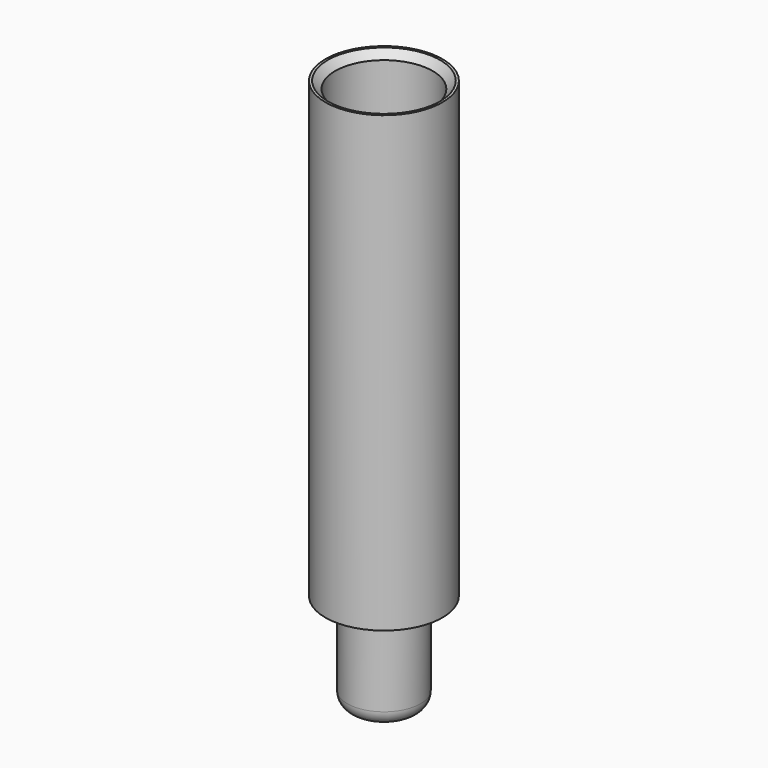
from build123d import *

# Parameters (mm, degrees)
SKETCH011_R      = 1
EXTRUDE013_DEPTH = 8
SKETCH009_R      = 1.2
EXTRUDE012_DEPTH = 9.3
CHAMFER001_SIZE  = 0.15
SKETCH012_R      = 0.75
EXTRUDE014_DEPTH = 2
FILLET011_R      = 0.3


with BuildPart() as extrude013:
    # Sketch011 → Extrude013 (new body)
    with BuildSketch(Plane.XY.offset(9.3)):
        with Locations((-2.5, 0)):
            Circle(SKETCH011_R)
    extrude(amount=-EXTRUDE013_DEPTH)


with BuildPart() as pinfemale002:
    # Sketch009 → Extrude012 (new body)
    with BuildSketch(Plane.XY.offset(9.6)):
        with Locations((-2.5, 0)):
            Circle(SKETCH009_R)
    extrude(amount=-EXTRUDE012_DEPTH)


with BuildPart() as pinfemale002_1:
    # Extrude012 placement: moved
    add(pinfemale002.part.moved(Location((0, 0, -0.3))))

    # Cut007: cut Extrude013
    add(extrude013.part, mode=Mode.SUBTRACT)

    # Chamfer001
    chamfer001_edges = [pinfemale002_1.edges().sort_by_distance(p)[0] for p in [
        (-3.5, 0, 9.3),
    ]]
    chamfer(chamfer001_edges, length=CHAMFER001_SIZE)


with BuildPart() as pinfemale003:
    # Sketch012 → Extrude014 (new body)
    with BuildSketch(Plane(origin=(0, 0, 0), x_dir=(1, 0, 0), z_dir=(0, 0, -1))):
        with Locations((-2.5, 0)):
            Circle(SKETCH012_R)
    extrude(amount=EXTRUDE014_DEPTH)

    # Fillet011
    fillet011_edges = [pinfemale003.edges().sort_by_distance(p)[0] for p in [
        (-3.25, 0, -2),
    ]]
    fillet(fillet011_edges, radius=FILLET011_R)

    # Fusion006: union pinFemale002
    add(pinfemale002_1.part)


with BuildPart() as part_mirroring004:
    # Part__Mirroring004: instance of pinFemale003
    add(pinfemale003.part.mirror(Plane(origin=(0, 0, 0), x_dir=(0, -1, 0), z_dir=(1, 0, 0))))


solid = part_mirroring004.part
